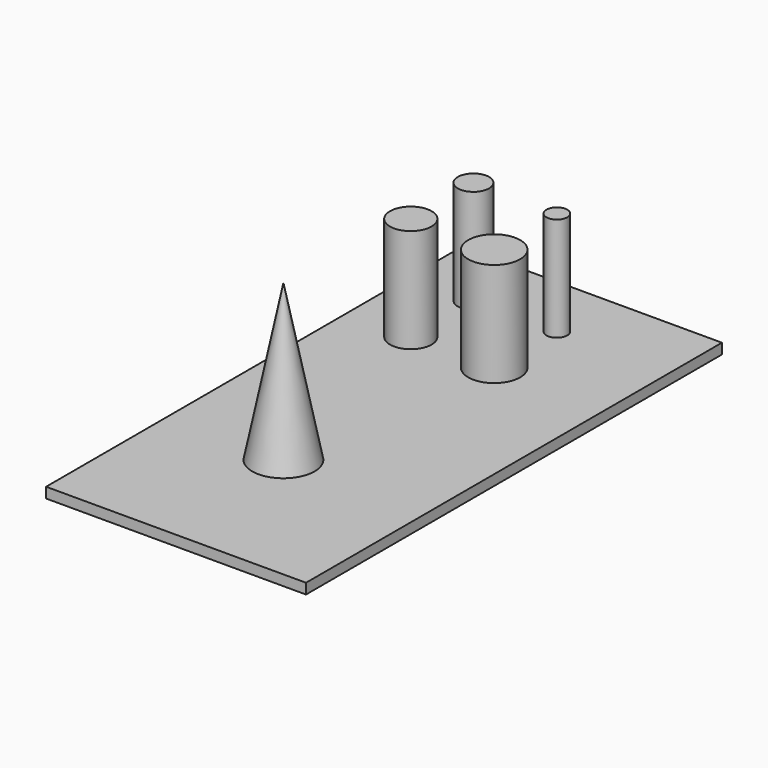
from build123d import *

# Parameters (mm, degrees)
F0_W     = 50
F0_H     = 50
F1_DEPTH = 1
F2_R     = 1.5
F2_R_2   = 1
F2_R_3   = 2
F2_R_4   = 2.5
F3_DEPTH = 10
F4_R     = 3
F8_W     = 25
F8_H     = 50
F9_DEPTH = 1


with BuildPart() as f1:
    # F0 (on Top) → F1 (new body)
    with BuildSketch(Plane.XY):
        Rectangle(F0_W, F0_H)
    extrude(amount=F1_DEPTH)

    # F2 (on face) → F3 (join)
    with BuildSketch(Plane.XY.offset(1)):
        with Locations((-18.8301634043, 18.6664275825)):
            Circle(F2_R)
        with Locations((-10.8068743721, 18.6664275825)):
            Circle(F2_R_2)
        with Locations((-18.8301634043, 11.1343609169)):
            Circle(F2_R_3)
        with Locations((-10.8068743721, 11.1343609169)):
            Circle(F2_R_4)
    extrude(amount=F3_DEPTH)

    # F4 (on face) → F7 section 0
    with BuildSketch(Plane.XY.offset(1), mode=Mode.PRIVATE) as f7_s0:
        with Locations((-13.8089349493, -10.4548223317)):
            Circle(F4_R)
    loft([f7_s0.sketch, Vertex(-13.8089349493, -10.4548223317, 16)])

    # F8 (on face) → F9 (cut, through all)
    with BuildSketch(Plane.XY.offset(1)):
        with Locations((12.5, 0)):
            Rectangle(F8_W, F8_H)
    extrude(amount=-F9_DEPTH, mode=Mode.SUBTRACT)


solid = f1.part
